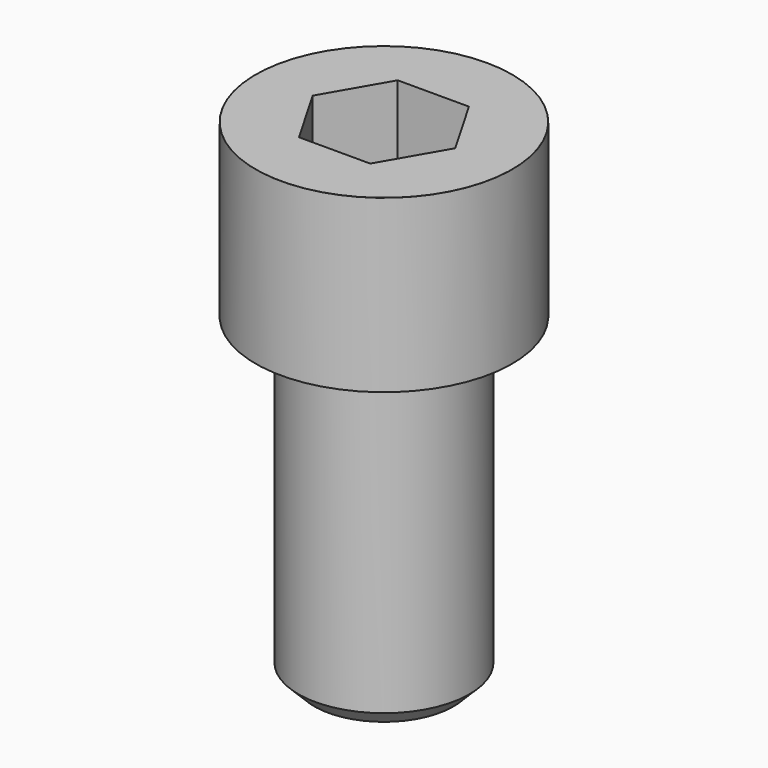
from build123d import *

# Parameters (mm, degrees)
POCKET_DEPTH = 46.15


with BuildPart() as part:
    # Sketch → Revolve (revolve)
    with BuildSketch(Plane.YZ):
        with BuildLine():
            Line((31.999, 0), (48, 0))
            Line((48, 0), (48, 63.97229))
            ThreePointArc((48, 63.97229), (47.991884, 63.991884), (47.97229, 64))
            Line((47.97229, 64), (0, 64))
            Line((0, -120), (0, 64))
            Line((26, -120), (0, -120))
            Line((32, -114), (26, -120))
            Line((32, -1), (32, -114))
            Line((31.999, 0), (32, -1))
        make_face()
    revolve(axis=Axis((0, 0, 0), (0, 0, 1)))

    # Sketch001 → Pocket (cut)
    with BuildSketch(Plane.XY.offset(64)):
        Polygon((26.644715, 0), (13.322357, 23.075), (-13.322357, 23.075), (-26.644715, 0), (-13.322357, -23.075), (13.322357, -23.075), align=None)
    extrude(amount=-POCKET_DEPTH, mode=Mode.SUBTRACT)


solid = part.part
